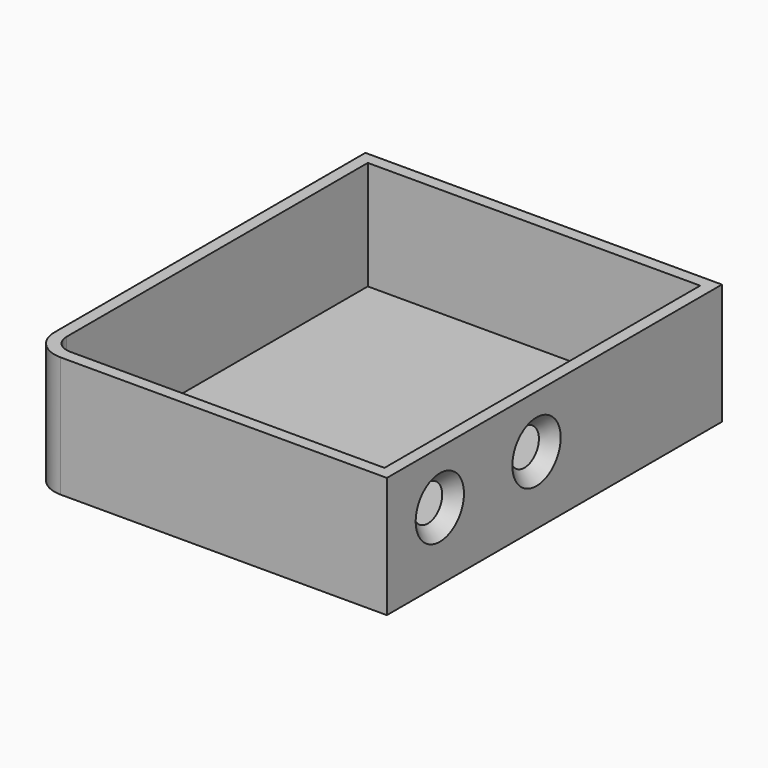
from build123d import *

# Parameters (mm, degrees)
F1_DEPTH       = 25.4
F2_T           = -2.54
F4_D           = 6.35
F4_DEPTH       = 12.7
F4_CSINK_D     = 12.7
F4_CSINK_ANGLE = 90


with BuildPart() as f1:
    # F0 (on Top) → F1 (new body)
    with BuildSketch(Plane.XY):
        with BuildLine():
            ThreePointArc((-57.059065, -53.702373), (-55.199193, -58.192501), (-50.709065, -60.052373))
            Line((-50.709065, -60.052373), (17.889393, -60.052373))
            Line((17.889393, -60.052373), (17.889393, 27.981024))
            Line((17.889393, 27.981024), (-57.059065, 27.981024))
            Line((-57.059065, 27.981024), (-57.059065, -53.702373))
        make_face()
    extrude(amount=F1_DEPTH)

    # F2
    f2_openings = [f1.faces().sort_by_distance(p)[0] for p in [
        (-19.537486, -15.979733, 25.4),
    ]]
    offset(amount=F2_T, openings=f2_openings)

    # F4
    with Locations(Plane.YZ.offset(17.889393)):
        with Locations((-46.142266, 14.274741), (-20.742266, 14.274741)):
            CounterSinkHole(F4_D / 2, F4_CSINK_D / 2, depth=F4_DEPTH, counter_sink_angle=F4_CSINK_ANGLE)


solid = f1.part
